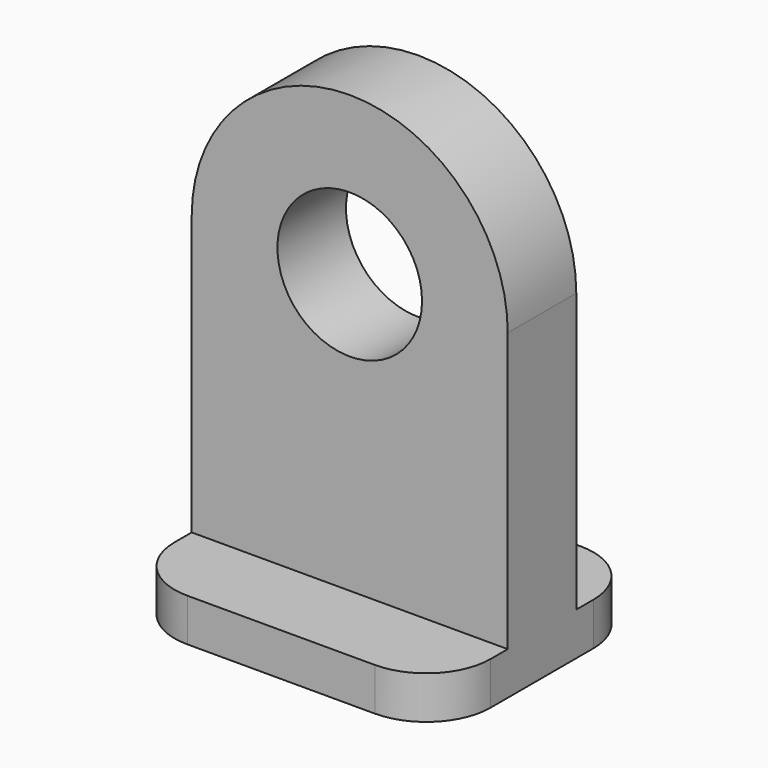
from build123d import *

# Parameters (mm, degrees)
F0_R     = 3.375
F1_DEPTH = 4
F2_W     = 14.75
F2_H     = 4
F3_DEPTH = 2
F4_R     = 3


with BuildPart() as f1:
    # F0 (on Front) → F1 (new body)
    with BuildSketch(Plane.XZ):
        with BuildLine():
            Line((7.375, -15), (7.375, 0))
            ThreePointArc((7.375, 0), (0, -7.375), (-7.375, 0))
            Line((-7.375, 0), (-7.375, -15))
            Line((-7.375, -15), (7.375, -15))
        make_face()
        with BuildLine():
            ThreePointArc((-7.375, 0), (0, -7.375), (7.375, 0))
            ThreePointArc((7.375, 0), (0, 7.375), (-7.375, 0))
        make_face()
        Circle(F0_R, mode=Mode.SUBTRACT)
    extrude(amount=F1_DEPTH)

    # F2 (on face) → F3 (join)
    with BuildSketch(Plane(origin=(0, 0, -15), x_dir=(1, 0, 0), z_dir=(0, 0, -1))):
        with Locations((0, -2)):
            Rectangle(F2_W, F2_H)
        with Locations((0, 2)):
            Rectangle(F2_W, F2_H)
        with Locations((0, 6)):
            Rectangle(F2_W, F2_H)
    extrude(amount=-F3_DEPTH)

    # F4
    f4_edges = [f1.edges().sort_by_distance(p)[0] for p in [
        (-7.375, -8, -14),
        (7.375, -8, -14),
        (-7.375, 4, -14),
        (7.375, 4, -14),
    ]]
    fillet(f4_edges, radius=F4_R)


solid = f1.part
